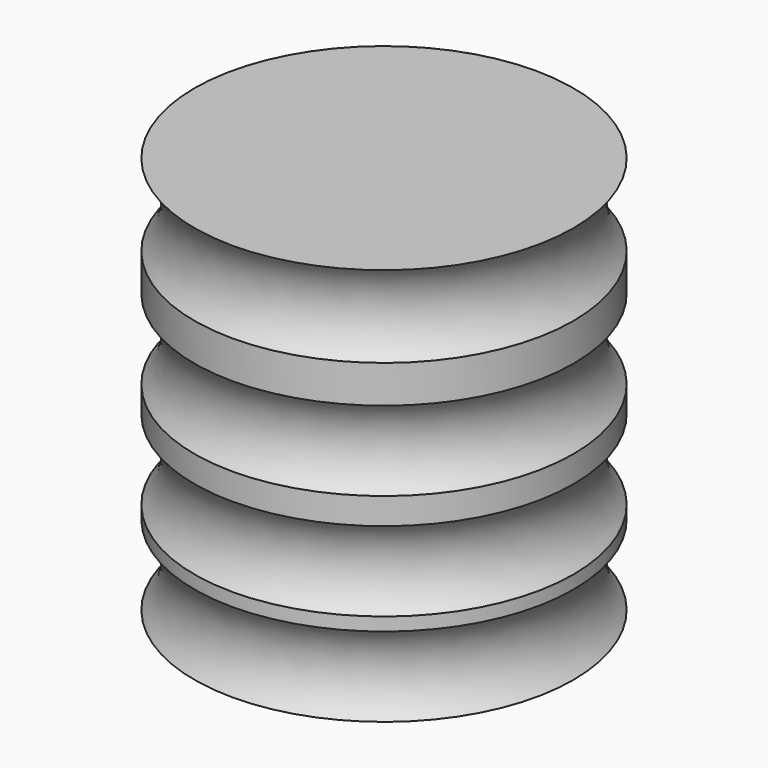
from build123d import *


with BuildPart() as f1:
    # F0 (on Front) → F1 (revolve)
    with BuildSketch(Plane.XZ):
        with BuildLine():
            Line((45.387666, 53.660469), (0, 53.660469))
            Line((0, 53.660469), (0, -41.589531))
            Line((0, -41.589531), (45.387666, -41.589531))
            ThreePointArc((45.387666, -41.589531), (41.653866, -32.064531), (45.387666, -22.539531))
            Line((45.387666, -22.539531), (45.387666, -19.364531))
            ThreePointArc((45.387666, -19.364531), (41.653866, -9.839531), (45.387666, -0.314531))
            Line((45.387666, -0.314531), (45.387666, 6.035469))
            ThreePointArc((45.387666, 6.035469), (41.653866, 15.560469), (45.387666, 25.085469))
            Line((45.387666, 25.085469), (45.387666, 34.105086))
            ThreePointArc((45.387666, 34.105086), (41.653866, 43.882778), (45.387666, 53.660469))
        make_face()
    revolve(axis=Axis((0, 0, 6.035469), (0, 0, -1)))


solid = f1.part
